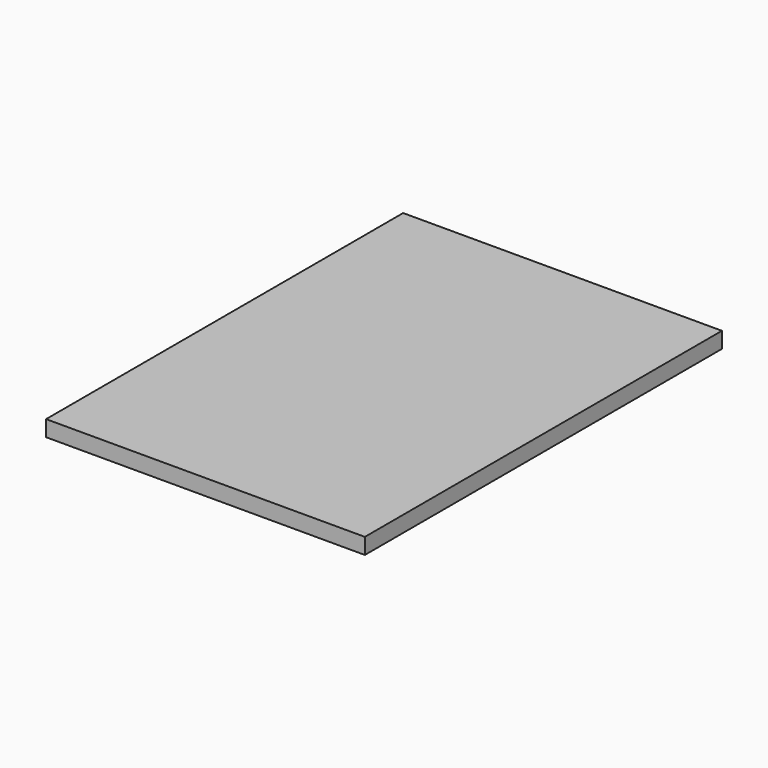
from build123d import *

# Parameters (mm, degrees)
F1_DEPTH  = 228.6
F2_R      = 6.35
F3_DEPTH  = 76.2
F2_R_2    = 0.0318822677
F4_DEPTH  = 177.8
F5_DEPTH  = 203.2
F18_W     = 457.1923286208
F18_H     = 234.95
F19_DEPTH = 254
F21_DEPTH = 254
F22_DEPTH = 254


with BuildPart() as f1:
    # F0 (on Top) → F1 (new body)
    with BuildSketch(Plane.XY):
        Polygon((-190.5, 0), (-176.9553790345, 11.8515433448), (-190.5, 25.3961643104), (-215.8961643104, 0), (-190.5, -25.3961643104), (-176.9553790345, -11.8515433448), align=None)
        Polygon((-165.1038356896, 0), (-176.9553790345, 11.8515433448), (-190.5, 0), (-176.9553790345, -11.8515433448), align=None)
        Polygon((-88.9, 0), (-88.9, 63.5), (-102.4466666667, 77.0466666667), (-176.9553790345, 11.8515433448), (-165.1038356896, 0), (-176.9553790345, -11.8515433448), (-102.4466666667, -77.0466666667), (-88.9, -63.5), align=None)
        Polygon((-88.9, 63.5), (-63.5, 88.9), (-88.9, 114.3), (-114.3, 88.9), (-102.4466666667, 77.0466666667), align=None)
        Polygon((-63.5, -88.9), (-88.9, -63.5), (-102.4466666667, -77.0466666667), (-114.3, -88.9), (-88.9, -114.3), align=None)
        Polygon((102.4466666667, -77.0466666667), (88.9, -63.5), (63.5, -88.9), (88.9, -114.3), (114.3, -88.9), align=None)
        Polygon((102.4466666667, 77.0466666667), (88.9, 63.5), (88.9, 0), (88.9, -63.5), (102.4466666667, -77.0466666667), (176.9553790345, -11.8515433448), (165.1038356896, 0), (176.9553790345, 11.8515433448), align=None)
        Polygon((63.5, 88.9), (0, 88.9), (-63.5, 88.9), (-88.9, 63.5), (-88.9, 0), (-88.9, -63.5), (-63.5, -88.9), (0, -88.9), (63.5, -88.9), (88.9, -63.5), (88.9, 0), (88.9, 63.5), align=None)
        Polygon((88.9, 114.3), (63.5, 88.9), (88.9, 63.5), (102.4466666667, 77.0466666667), (114.3, 88.9), align=None)
        Polygon((190.5, 25.3961643104), (176.9553790345, 11.8515433448), (190.5, 0), (176.9553790345, -11.8515433448), (190.5, -25.3961643104), (215.8961643104, 0), align=None)
        Polygon((190.5, 0), (176.9553790345, 11.8515433448), (165.1038356896, 0), (176.9553790345, -11.8515433448), align=None)
    extrude(amount=F1_DEPTH)

    # F2 (on face) → F3 (join)
    with BuildSketch(Plane.XY.offset(228.6)):
        Polygon((-177.8019178448, 0), (-190.5, 12.6980821552), (-203.1980821552, 0), (-190.5, -12.6980821552), align=None)
        with Locations((-190.5, 0)):
            Circle(F2_R, mode=Mode.SUBTRACT)
        Polygon((-88.9, 101.6), (-101.6, 88.9), (-88.9, 76.2), (-76.2, 88.9), align=None)
        with Locations((-88.9, 88.8576358557)):
            Circle(F2_R, mode=Mode.SUBTRACT)
        Polygon((190.5, -12.6980821552), (203.1980821552, 0), (190.5, 12.6980821552), (177.8019178448, 0), align=None)
        with Locations((190.5, 0)):
            Circle(F2_R, mode=Mode.SUBTRACT)
        Polygon((88.9, -101.6), (101.6, -88.9), (88.9, -76.2), (76.2, -88.9), align=None)
        with Locations((88.9, -88.8576358557)):
            Circle(F2_R, mode=Mode.SUBTRACT)
        Polygon((-101.6, -88.9), (-88.9, -101.6), (-76.2, -88.9), (-88.9, -76.2), align=None)
        with Locations((-88.9, -88.8576358557)):
            Circle(F2_R, mode=Mode.SUBTRACT)
        Polygon((101.6, 88.9), (88.9, 101.6), (76.2, 88.9), (88.9, 76.2), align=None)
        with Locations((88.9, 88.8576358557)):
            Circle(F2_R, mode=Mode.SUBTRACT)
    extrude(amount=F3_DEPTH)

    # F2 (on face) → F4 (join)
    with BuildSketch(Plane.XY.offset(228.6)):
        with Locations((-88.9, 88.8576358557)):
            Circle(F2_R)
        with Locations((-88.9, 88.8576358557)):
            Circle(F2_R_2, mode=Mode.SUBTRACT)
        with Locations((190.5, 0)):
            Circle(F2_R)
        with Locations((-88.9, -88.8576358557)):
            Circle(F2_R)
        with Locations((-88.9, -88.8576358557)):
            Circle(F2_R_2, mode=Mode.SUBTRACT)
        with Locations((88.9, -88.8576358557)):
            Circle(F2_R)
        with Locations((88.9, -88.8576358557)):
            Circle(F2_R_2, mode=Mode.SUBTRACT)
        with Locations((88.9, 88.8576358557)):
            Circle(F2_R)
        with Locations((88.9, 88.8576358557)):
            Circle(F2_R_2, mode=Mode.SUBTRACT)
    extrude(amount=F4_DEPTH)

    # F2 (on face) → F5 (join)
    with BuildSketch(Plane.XY.offset(228.6)):
        with Locations((-190.5, 0)):
            Circle(F2_R)
    extrude(amount=F5_DEPTH)

    # F6 (on face) → F7 (revolve, cut)
    with BuildSketch(Plane.XZ.offset(88.9)):
        Polygon((-88.8746, 406.4), (-82.4992, 304.8), (-82.4992, 406.4), align=None)
    revolve(axis=Axis((-88.9, -88.9, 355.6), (0, 0, 1)), mode=Mode.SUBTRACT)

    # F8 (on face) → F9 (revolve, cut)
    with BuildSketch(Plane.XZ.offset(88.9)):
        Polygon((88.9258086681, 406.4), (95.3012086681, 304.8), (95.3012086681, 406.4), align=None)
    revolve(axis=Axis((88.9004086681, -88.9, 355.6), (0, 0, 1)), mode=Mode.SUBTRACT)

    # F10 (on face) → F11 (revolve, cut)
    with BuildSketch(Plane(origin=(0, 88.9, 0), x_dir=(-1, 0, 0), z_dir=(0, 1, 0))):
        Polygon((88.9252200723, 406.4), (95.3006200723, 304.8), (95.3006200723, 406.4), align=None)
    revolve(axis=Axis((-88.8998200723, 88.9, 355.6), (0, 0, 1)), mode=Mode.SUBTRACT)

    # F12 (on face) → F13 (revolve, cut)
    with BuildSketch(Plane(origin=(0, 88.9, 0), x_dir=(-1, 0, 0), z_dir=(0, 1, 0))):
        Polygon((-88.873654604, 406.4), (-82.498254604, 304.8), (-82.498254604, 406.4), align=None)
    revolve(axis=Axis((88.899054604, 88.9, 355.6), (0, 0, 1)), mode=Mode.SUBTRACT)

    # F14 (on face) → F15 (revolve, cut)
    with BuildSketch(Plane(origin=(82.6061946903, 94.407079646, 0), x_dir=(-0.7525766947, 0.6585046079, 0), z_dir=(0.6585046079, 0.7525766947, 0))):
        Polygon((-143.3982827, 406.4), (-136.9974827, 304.8), (-136.9974827, 406.4), align=None)
    revolve(axis=Axis((190.5435157593, -0.0380762894, 355.6), (0, 0, 1)), mode=Mode.SUBTRACT)

    # F16 (on face) → F17 (revolve, cut)
    with BuildSketch(Plane(origin=(-82.6061946903, -94.407079646, 0), x_dir=(0.7525766947, -0.6585046079, 0), z_dir=(-0.6585046079, -0.7525766947, 0))):
        Polygon((-143.3958336711, 431.8), (-136.9950336711, 304.8), (-136.9950336711, 431.8), align=None)
    revolve(axis=Axis((-190.5416726772, 0.0364635926, 368.3), (0, 0, 1)), mode=Mode.SUBTRACT)

    # F18 (on Front) → F19 (cut, symmetric)
    with BuildSketch(Plane.XZ):
        with Locations((0, 104.775)):
            Rectangle(F18_W, F18_H)
    extrude(amount=F19_DEPTH, both=True, mode=Mode.SUBTRACT)

    # F20 (on face) → F21 (cut, symmetric)
    with BuildSketch(Plane.XY.offset(228.6)):
        Polygon((-63.5, -88.9), (-63.5, 88.9), (-88.9, 114.3), (-114.3, 88.9), (-102.4466666667, 77.0466666667), (-176.9553790345, 11.8515433448), (-190.5, 25.3961643104), (-215.8961643104, 0), (-190.5, -25.3961643104), (-176.9553790345, -11.8515433448), (-102.4466666667, -77.0466666667), (-114.3, -88.9), (-88.9, -114.3), align=None)
        Polygon((-76.2, -88.9), (-88.9, -101.6), (-101.6, -88.9), (-88.9, -76.2), align=None, mode=Mode.SUBTRACT)
        Polygon((-190.5, -12.6980821552), (-203.1980821552, 0), (-190.5, 12.6980821552), (-177.8019178448, 0), align=None, mode=Mode.SUBTRACT)
        Polygon((-88.9, 76.2), (-101.6, 88.9), (-88.9, 101.6), (-76.2, 88.9), align=None, mode=Mode.SUBTRACT)
        Polygon((-88.9, 101.6), (-101.6, 88.9), (-88.9, 76.2), (-76.2, 88.9), align=None)
        Polygon((-190.5, 12.6980821552), (-203.1980821552, 0), (-190.5, -12.6980821552), (-177.8019178448, 0), align=None)
        Polygon((-101.6, -88.9), (-88.9, -101.6), (-76.2, -88.9), (-88.9, -76.2), align=None)
        Polygon((-88.9, 114.3), (-63.5, 88.9), (-63.5, 130.1615387201), (-229.1453778744, 130.1615387201), (-229.1453778744, -150.0742584467), (-63.5, -150.0742584467), (-63.5, -88.9), (-88.9, -114.3), (-114.3, -88.9), (-102.4466666667, -77.0466666667), (-176.9553790345, -11.8515433448), (-190.5, -25.3961643104), (-215.8961643104, 0), (-190.5, 25.3961643104), (-176.9553790345, 11.8515433448), (-102.4466666667, 77.0466666667), (-114.3, 88.9), align=None)
    extrude(amount=F21_DEPTH, both=True, mode=Mode.SUBTRACT)

    # F20 (on face) → F22 (cut, symmetric)
    with BuildSketch(Plane.XY.offset(228.6)):
        Polygon((88.9, 114.3), (63.5, 88.9), (63.5, -88.9), (88.9, -114.3), (114.3, -88.9), (102.4466666667, -77.0466666667), (176.9553790345, -11.8515433448), (190.5, -25.3961643104), (215.8961643104, 0), (190.5, 25.3961643104), (176.9553790345, 11.8515433448), (102.4466666667, 77.0466666667), (114.3, 88.9), align=None)
        Polygon((88.9, -76.2), (101.6, -88.9), (88.9, -101.6), (76.2, -88.9), align=None, mode=Mode.SUBTRACT)
        Polygon((190.5, -12.6980821552), (177.8019178448, 0), (190.5, 12.6980821552), (203.1980821552, 0), align=None, mode=Mode.SUBTRACT)
        Polygon((76.2, 88.9), (88.9, 101.6), (101.6, 88.9), (88.9, 76.2), align=None, mode=Mode.SUBTRACT)
        Polygon((101.6, 88.9), (88.9, 101.6), (76.2, 88.9), (88.9, 76.2), align=None)
        Polygon((246.9839304686, 138.0399912596), (63.5, 138.0399912596), (63.5, 88.9), (88.9, 114.3), (114.3, 88.9), (102.4466666667, 77.0466666667), (176.9553790345, 11.8515433448), (190.5, 25.3961643104), (215.8961643104, 0), (190.5, -25.3961643104), (176.9553790345, -11.8515433448), (102.4466666667, -77.0466666667), (114.3, -88.9), (88.9, -114.3), (63.5, -88.9), (63.5, -133.0628693104), (246.9839304686, -133.0628693104), align=None)
        Polygon((190.5, 12.6980821552), (177.8019178448, 0), (190.5, -12.6980821552), (203.1980821552, 0), align=None)
        Polygon((88.9, -101.6), (101.6, -88.9), (88.9, -76.2), (76.2, -88.9), align=None)
    extrude(amount=F22_DEPTH, both=True, mode=Mode.SUBTRACT)


solid = f1.part
